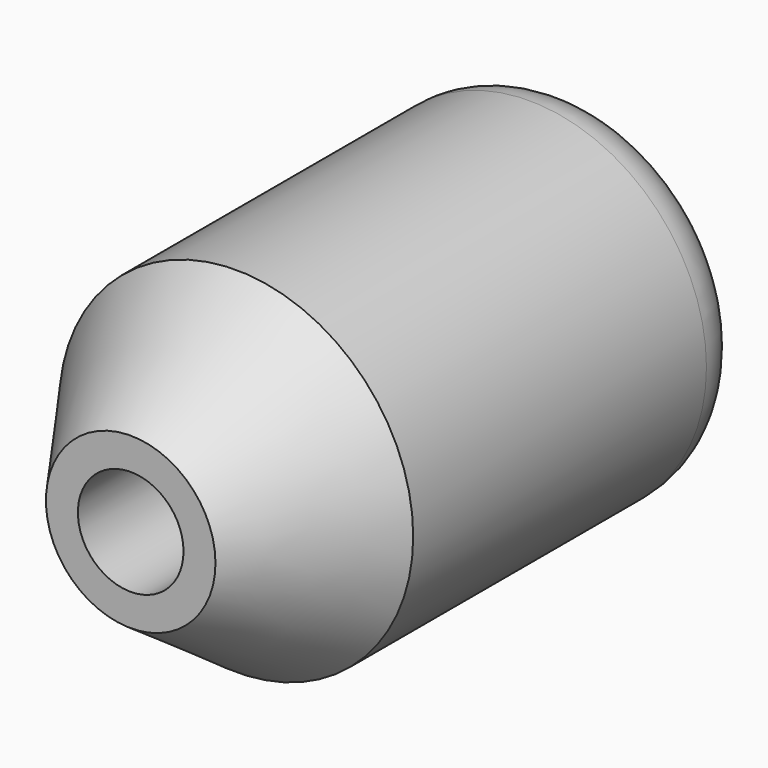
from build123d import *

# Parameters (mm, degrees)
F0_R     = 24.3653753529
F1_DEPTH = 76.2
F2_R     = 7.62
F3_R     = 7.2684002017
F4_DEPTH = 50.8
F5_SIZE2 = 18.1374796856
F5_SIZE  = 12.7


with BuildPart() as f1:
    # F0 (on Front) → F1 (new body)
    with BuildSketch(Plane.XZ):
        Circle(F0_R)
    extrude(amount=F1_DEPTH)

    # F2
    f2_edges = [f1.edges().sort_by_distance(p)[0] for p in [
        (-24.365375, 0, 0),
    ]]
    fillet(f2_edges, radius=F2_R)

    # F3 (on face) → F4 (cut)
    with BuildSketch(Plane.XZ.offset(76.2)):
        Circle(F3_R)
    extrude(amount=-F4_DEPTH, mode=Mode.SUBTRACT)

    # F5
    f5_edges = [f1.edges().sort_by_distance(p)[0] for p in [
        (-24.365375, -76.2, 0),
    ]]
    f5_side = f1.faces().sort_by_distance((-23.676218, -76.2, 0))[0]
    chamfer(f5_edges, length=F5_SIZE, length2=F5_SIZE2, reference=f5_side)


solid = f1.part
